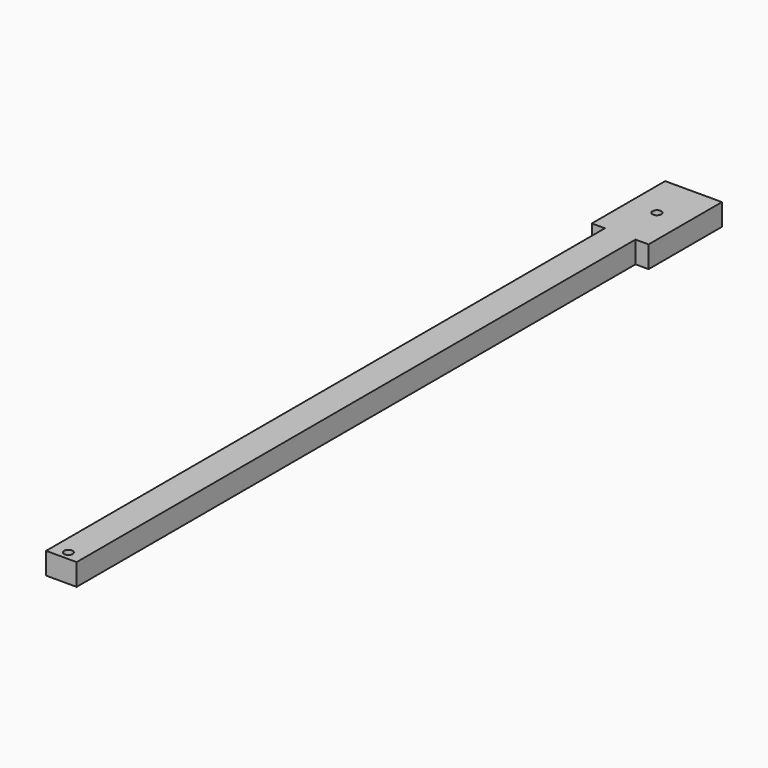
from build123d import *

# Parameters (mm, degrees)
F0_R     = 0.254
F1_DEPTH = 1.27


with BuildPart() as f1:
    # F0 (on Top) → F1 (new body)
    with BuildSketch(Plane.XY):
        Polygon((0.889, -2.667), (1.651, -2.667), (1.651, 2.667), (-1.651, 2.667), (-1.651, -2.667), (-0.889, -2.667), (-0.889, -43.307), (0.889, -43.307), align=None)
        with Locations((0, -42.799)):
            Circle(F0_R, mode=Mode.SUBTRACT)
        Circle(F0_R, mode=Mode.SUBTRACT)
    extrude(amount=F1_DEPTH)


solid = f1.part
